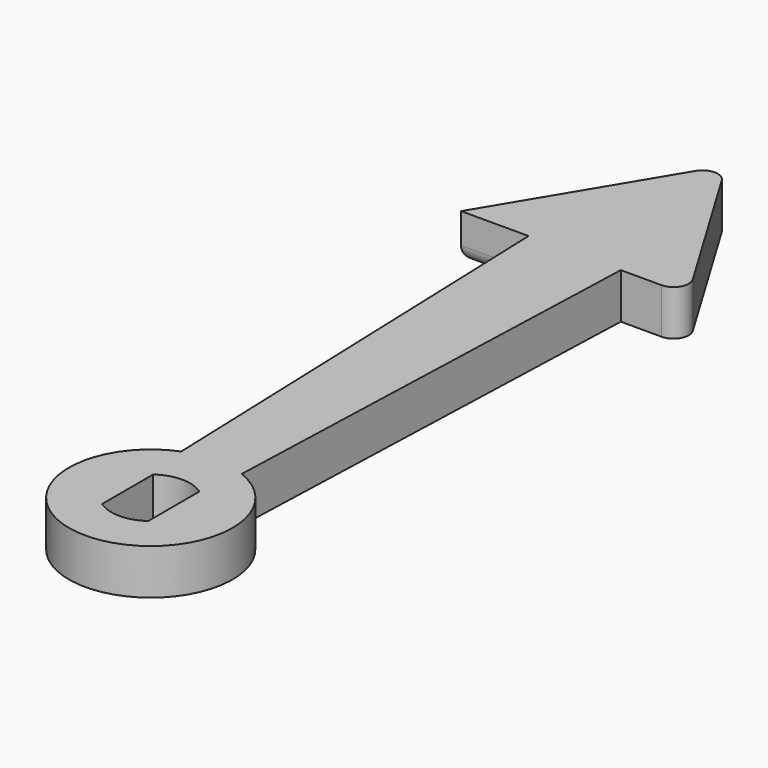
from build123d import *

# Parameters (mm, degrees)
F0_R     = 5.4
F1_DEPTH = 1.5
F3_DEPTH = 1.5
F6_DEPTH = 1.5
F7_R     = 1


with BuildPart() as f1:
    # F0 (on Top) → F1 (new body, symmetric)
    with BuildSketch(Plane.XY):
        Circle(F0_R)
        with BuildLine():
            ThreePointArc((1.525, 2.1057955741), (2.3157072354, 1.1821590418), (2.6, 0))
            ThreePointArc((2.6, 0), (2.3157072354, -1.1821590418), (1.525, -2.1057955741))
            ThreePointArc((1.525, -2.1057955741), (0, -2.6), (-1.525, -2.1057955741))
            ThreePointArc((-1.525, -2.1057955741), (-2.6, 0), (-1.525, 2.1057955741))
            ThreePointArc((-1.525, 2.1057955741), (0, 2.6), (1.525, 2.1057955741))
        make_face(mode=Mode.SUBTRACT)
        with BuildLine():
            Line((-1.525, -2.1057955741), (-1.525, 2.1057955741))
            ThreePointArc((-1.525, 2.1057955741), (-2.6, 0), (-1.525, -2.1057955741))
        make_face()
        with BuildLine():
            ThreePointArc((1.525, -2.1057955741), (2.3157072354, -1.1821590418), (2.6, 0))
            ThreePointArc((2.6, 0), (2.3157072354, 1.1821590418), (1.525, 2.1057955741))
            Line((1.525, 2.1057955741), (1.525, -2.1057955741))
        make_face()
    extrude(amount=F1_DEPTH, both=True)

    # F2 (on face) → F3 (join, through all)
    with BuildSketch(Plane.XY.offset(1.5)):
        with BuildLine():
            Line((3.0470652436, 35), (0, 35))
            Line((0, 35), (-3.0470652436, 35))
            Line((-3.0470652436, 35), (-2, 5.0159744816))
            ThreePointArc((-2, 5.0159744816), (0, 5.4), (2, 5.0159744816))
            Line((2, 5.0159744816), (3.0470652436, 35))
        make_face()
    extrude(amount=-F3_DEPTH)

    # F4: F1 across face


with BuildPart() as f1_1:
    add(f1.part)
    add(f1.part.mirror(Plane(origin=(0, 21.1536915462, 0), x_dir=(1, 0, 0), z_dir=(0, 0, -1))))

    # F5 (on Top) → F6 (join, symmetric)
    with BuildSketch(Plane.XY):
        Polygon((0, 47.5), (-7.5, 35), (7.5, 35), align=None)
    extrude(amount=F6_DEPTH, both=True)

    # F7 (call 1 of 3: OpenCascade refuses the feature's edges together)
    f7_edges = [f1_1.edges().sort_by_distance(p)[0] for p in [
        (0, 47.5, 0),
    ]]
    fillet(f7_edges, radius=F7_R)

    # F7#2 (call 2 of 3)
    f7_2_edges = [f1_1.edges().sort_by_distance(p)[0] for p in [
        (7.5, 35, 0),
    ]]
    fillet(f7_2_edges, radius=F7_R)

    # F7#3 (call 3 of 3)
    f7_3_edges = [f1_1.edges().sort_by_distance(p)[0] for p in [
        (-5.273533, 35, -1.5),
    ]]
    fillet(f7_3_edges, radius=F7_R)


solid = f1_1.part
